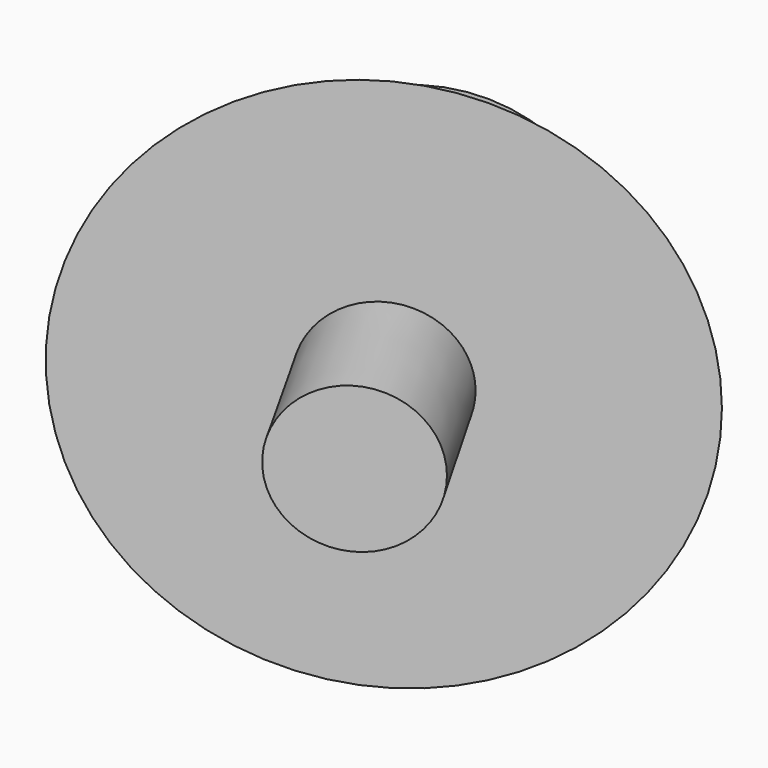
from build123d import *


with BuildPart() as f1:
    # F0 (on Top) → F1 (revolve)
    with BuildSketch(Plane.XY):
        Polygon((20.6735245273, -10.1737510542), (0, 0), (9.6385749057, -16.5863316506), align=None)
    revolve(axis=Axis((4.8192874528, -8.2931658253, 0), (0.5024396308, -0.8646122931, 0)))


with BuildPart() as f4:
    # F2 (on Top) → F4 (revolve)
    with BuildSketch(Plane.XY):
        Polygon((15.2008896694, -13.3851878345), (9.6562886611, -16.57512784), (19.2023482047, -33.1676315482), (39.1067235685, -21.7161739657), align=None)
    revolve(axis=Axis((14.4293184329, -24.8713796941, 0), (0.4986819291, -0.8667850562, 0)))

    # F3 (on Top) → F5 (revolve)
    with BuildSketch(Plane.XY):
        Polygon((24.6111322194, -30.0644841045), (19.1932790988, -33.137831626), (25.3579408743, -44.0052105362), (30.8218967437, -40.905710632), align=None)
    revolve(axis=Axis((22.2756099865, -38.5715210811, 0), (0.4934051273, -0.8697996208, 0)))


solid = Compound([f1.part, f4.part])
